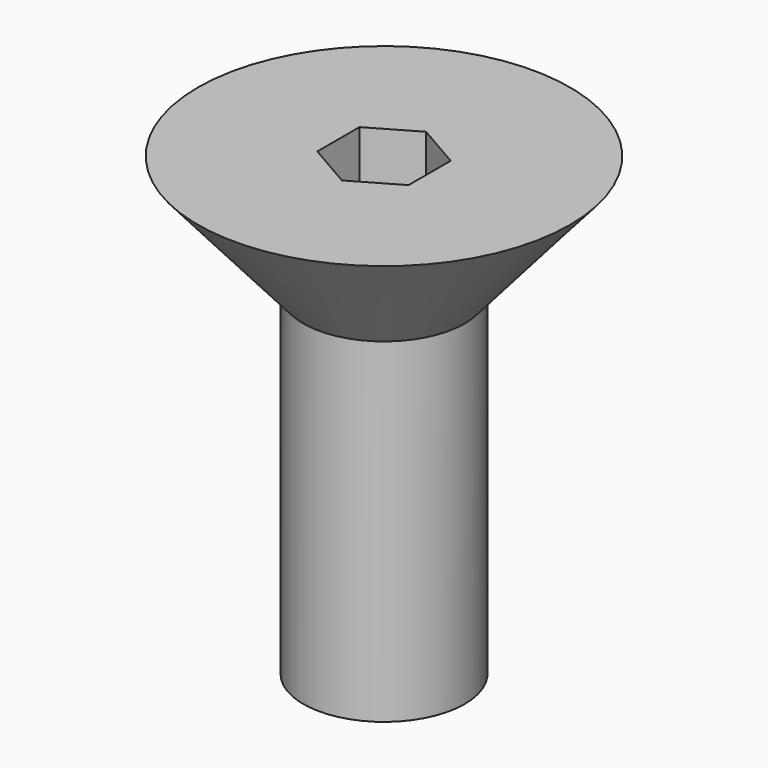
from build123d import *

# Parameters (mm, degrees)
F0_R     = 3.2385
F1_DEPTH = 2.1082
F1_TAPER = 41
F3_DEPTH = 5.8293
F5_DEPTH = 1.27


with BuildPart() as f1:
    # F0 (on Top) → F1 (new body)
    with BuildSketch(Plane.XY):
        Circle(F0_R)
    extrude(amount=-F1_DEPTH, taper=F1_TAPER)

    # F3 (add, through all): a face of the model
    f3_faces = [f1.faces().sort_by_distance(p)[0] for p in [
        (0, 0, -2.1082),
    ]]
    extrude(f3_faces, amount=F3_DEPTH)

    # F4 (on face) → F5 (cut)
    with BuildSketch(Plane.XY):
        Polygon((0.79375, -0.4582717762), (0.79375, 0.4582717762), (0, 0.9165435523), (-0.79375, 0.4582717762), (-0.79375, -0.4582717762), (0, -0.9165435523), align=None)
    extrude(amount=-F5_DEPTH, mode=Mode.SUBTRACT)


solid = f1.part
